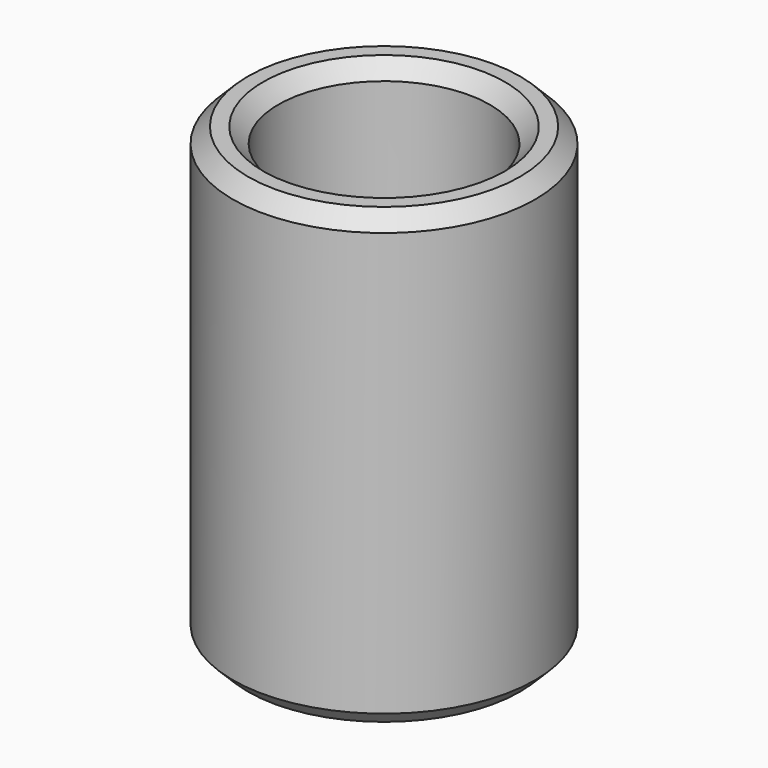
from build123d import *

# Parameters (mm, degrees)
F0_W     = 31.75
F0_H     = 95.25
F2_R     = 22.225
F3_DEPTH = 50.8
F4_R     = 14.2875
F5_DEPTH = 95.251
F6_SIZE  = 3.175


with BuildPart() as f1:
    # F0 (on Front) → F1 (revolve)
    with BuildSketch(Plane.XZ):
        with Locations((15.875, 47.625)):
            Rectangle(F0_W, F0_H)
    revolve(axis=Axis((0, 0, 30.3924912523), (0, 0, 1)))

    # F2 (on face) → F3 (cut)
    with BuildSketch(Plane.XY.offset(95.25)):
        Circle(F2_R)
    extrude(amount=-F3_DEPTH, mode=Mode.SUBTRACT)

    # F4 (on face) → F5 (cut, through all)
    with BuildSketch(Plane(origin=(0, 0, 0), x_dir=(1, 0, 0), z_dir=(0, 0, -1))):
        Circle(F4_R)
    extrude(amount=-F5_DEPTH, mode=Mode.SUBTRACT)

    # F6
    f6_edges = [f1.edges().sort_by_distance(p)[0] for p in [
        (-31.75, 0, 0),
        (-31.75, 0, 95.25),
        (-22.225, 0, 95.25),
        (-14.2875, 0, 44.45),
        (-14.2875, 0, 0),
        (14.2875, 0, 22.225),
    ]]
    chamfer(f6_edges, length=F6_SIZE)


solid = f1.part
